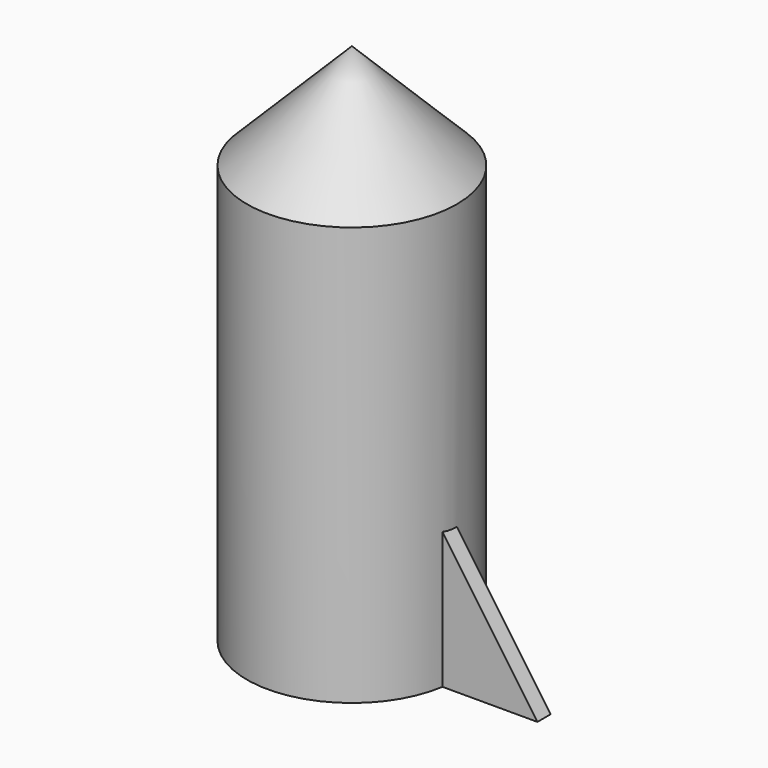
from build123d import *

# Parameters (mm, degrees)
F0_R     = 19.12
F0_R_2   = 11.5
F1_DEPTH = 76.2
F2_R     = 19.12
F3_DEPTH = 27.94
F3_TAPER = 45
F5_DEPTH = 3


with BuildPart() as f1:
    # F0 (on Top) → F1 (new body)
    with BuildSketch(Plane.XY):
        Circle(F0_R)
        Circle(F0_R_2, mode=Mode.SUBTRACT)
    extrude(amount=F1_DEPTH)

    # F2 (on face) → F3 (join)
    with BuildSketch(Plane.XY.offset(76.2)):
        Circle(F2_R)
    extrude(amount=F3_DEPTH, taper=F3_TAPER)

    # F4 (on Front) → F5 (join)
    with BuildSketch(Plane.XZ):
        Polygon((36.165818572, 0), (17.3498187214, 27.032000944), (16.6167281568, 0), align=None)
    extrude(amount=F5_DEPTH)


solid = f1.part
